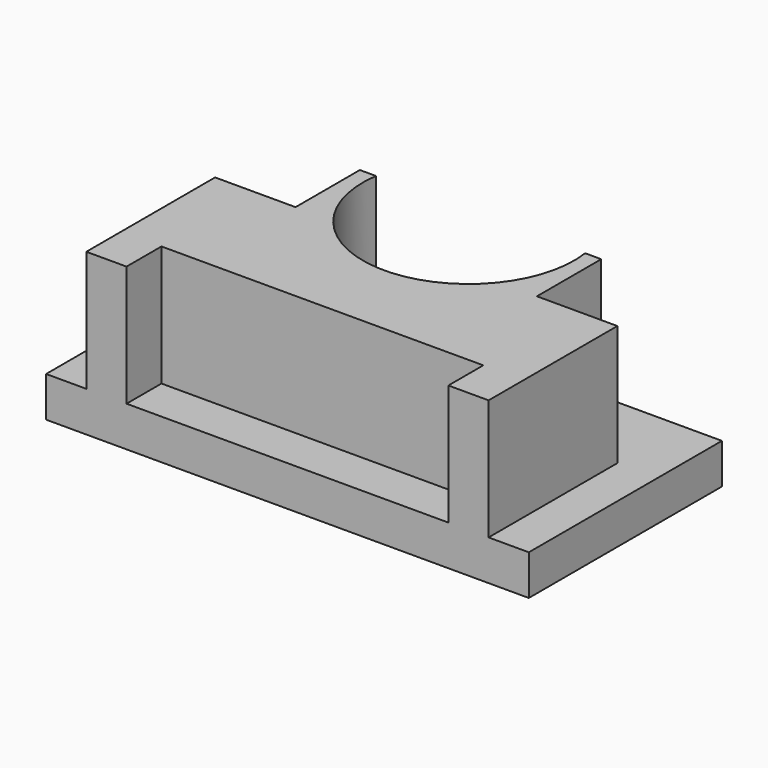
from build123d import *

# Parameters (mm, degrees)
F0_W     = 76.2
F0_H     = 38.1
F1_DEPTH = 6.35
F4_DEPTH = 19.05


with BuildPart() as f1:
    # F0 (on Top) → F1 (new body)
    with BuildSketch(Plane.XY):
        Rectangle(F0_W, F0_H)
    extrude(amount=F1_DEPTH)

    # F3 (on face) → F4 (join)
    with BuildSketch(Plane.XY.offset(6.35)):
        with BuildLine():
            Line((-25.4, -12.158483), (25.4, -12.158483))
            Line((25.4, -12.158483), (25.4, -19.05))
            Line((25.4, -19.05), (31.75, -19.05))
            Line((31.75, -19.05), (31.75, 6.358117))
            Line((31.75, 6.358117), (19.05, 6.358117))
            Line((19.05, 6.358117), (19.05, 19.05))
            Line((19.05, 19.05), (16.511167, 19.05))
            ThreePointArc((16.511167, 19.05), (0, 0), (-16.511167, 19.05))
            Line((-16.511167, 19.05), (-19.05, 19.05))
            Line((-19.05, 19.05), (-19.05, 6.358117))
            Line((-19.05, 6.358117), (-31.75, 6.358117))
            Line((-31.75, 6.358117), (-31.75, -19.05))
            Line((-31.75, -19.05), (-25.4, -19.05))
            Line((-25.4, -19.05), (-25.4, -12.158483))
        make_face()
    extrude(amount=F4_DEPTH)


solid = f1.part
